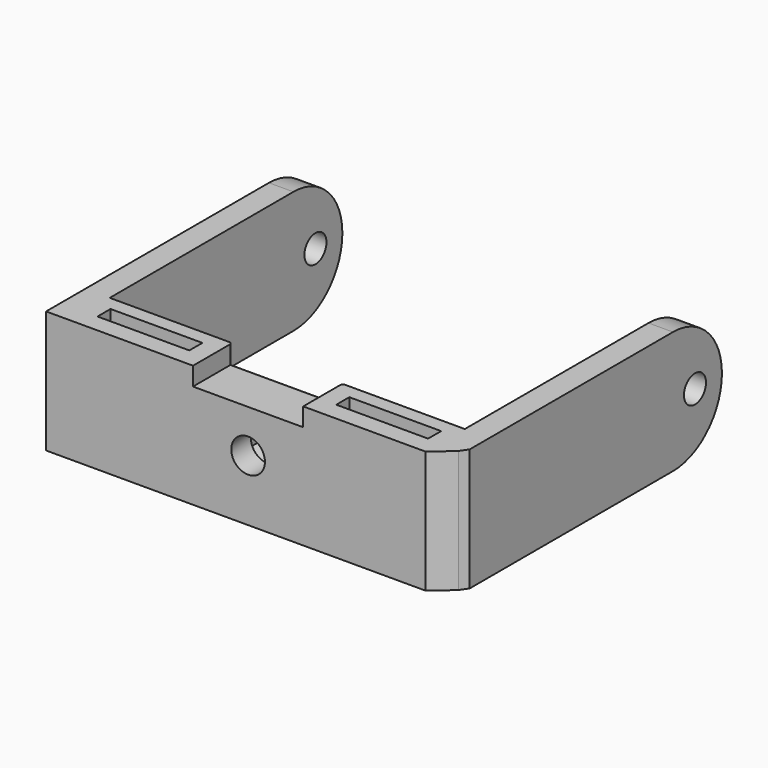
from build123d import *

# Parameters (mm, degrees)
SKETCH005_W             = 58
SKETCH005_H             = 20
SKETCH005_R             = 2.75
PAD004_DEPTH            = 8
SKETCH006_R             = 2.25
PAD005_DEPTH            = 4
POCKET005_DEPTH         = 4
SKETCH011_W             = 15
SKETCH011_H             = 2.666667
POCKET007_DEPTH         = 20
SKETCH012_W             = 18
SKETCH012_H             = 3
POCKET008_DEPTH         = 8
FILLET_R                = 0.5
POCKET009_DEPTH         = 20
BODY002_PLACEMENT_ANGLE = 180


with BuildPart() as part:
    # Sketch005 → Pad004 (new body)
    with BuildSketch(Plane.XZ):
        Rectangle(SKETCH005_W, SKETCH005_H)
        Circle(SKETCH005_R, mode=Mode.SUBTRACT)
    extrude(amount=PAD004_DEPTH)

    # Sketch006 (on Face4 of Pad004) → Pad005 (join)
    with BuildSketch(Plane(origin=(-29, 0, 0), x_dir=(0, 0, -1), z_dir=(-1, 0, 0))):
        with BuildLine():
            Line((-10, 0), (10, 0))
            Line((10, 0), (10, 45.5))
            ThreePointArc((10, 45.5), (0, 55.5), (-10, 45.5))
            Line((-10, 45.5), (-10, 0))
        make_face()
        with Locations((0, 50)):
            Circle(SKETCH006_R, mode=Mode.SUBTRACT)
    pad005 = extrude(amount=PAD005_DEPTH)

    # Mirrored003: Pad005 across YZ
    add(pad005.mirror(Plane.YZ))

    # Sketch007 (on Face5 of Mirrored003) → Pocket005 (cut)
    with BuildSketch(Plane.XZ.offset(8)):
        Polygon((4.113621, 2.375), (0, 4.75), (-4.113621, 2.375), (-4.113621, -2.375), (0, -4.75), (4.113621, -2.375), align=None)
    extrude(amount=-POCKET005_DEPTH, mode=Mode.SUBTRACT)

    # Sketch011 (on Face14 of Pocket005) → Pocket007 (cut)
    with BuildSketch(Plane(origin=(0, 0, 10), x_dir=(-1, 0, 0), z_dir=(0, 0, 1))):
        with Locations((-19.5, 4.333334)):
            Rectangle(SKETCH011_W, SKETCH011_H)
    pocket007 = extrude(amount=-POCKET007_DEPTH, mode=Mode.SUBTRACT)

    # Mirrored004: Pocket007 across YZ
    add(pocket007.mirror(Plane.YZ), mode=Mode.SUBTRACT)

    # Sketch012 (on Face3 of Mirrored004) → Pocket008 (cut)
    with BuildSketch(Plane(origin=(0, 0, 0), x_dir=(1, 0, 0), z_dir=(0, 1, 0))):
        with Locations((0, 8.5)):
            Rectangle(SKETCH012_W, SKETCH012_H)
    extrude(amount=-POCKET008_DEPTH, mode=Mode.SUBTRACT)

    # Fillet
    fillet_edges = [part.edges().sort_by_distance(p)[0] for p in [
        (0, -8, -7),
        (9, -8, -8.5),
        (-9, -8, -8.5),
    ]]
    fillet(fillet_edges, radius=FILLET_R)

    # Sketch013 (on Face35 of Fillet) → Pocket009 (cut)
    with BuildSketch(Plane(origin=(0, 0, 10), x_dir=(-1, 0, 0), z_dir=(0, 0, 1))):
        Polygon((-29, 0), (-32.156707, 2.74), (-33, 4), (-33, 0), align=None)
    extrude(amount=-POCKET009_DEPTH, mode=Mode.SUBTRACT)


with BuildPart() as part_1:
    # Body002 placement: moved
    add(part.part.moved(Location((-14.3, -30, 19.9))).rotate(Axis((-14.3, -30, 19.9), (1, 0, 0)), BODY002_PLACEMENT_ANGLE))


solid = part_1.part
